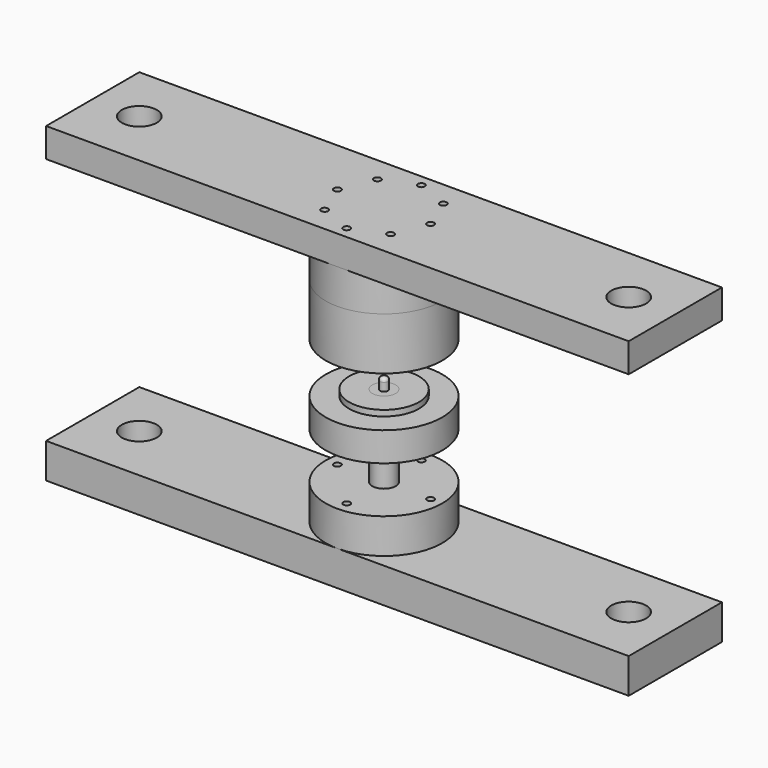
from build123d import *

# Parameters (mm, degrees)
F0_W      = 40
F0_H      = 30
F4_R      = 3
F5_DEPTH  = 90
F4_R_2    = 5.5
F4_R_3    = 2.5
F6_DEPTH  = 22
F4_R_4    = 3.15
F4_R_5    = 10
F7_DEPTH  = 30
F8_W      = 4.9999998882
F8_H      = 26
F12_R     = 3
F13_DEPTH = 45
F14_DEPTH = 25
F15_R     = 15
F16_DEPTH = 300


with BuildPart() as f1:
    # F0 (on Front) → F1 (revolve)
    with BuildSketch(Plane.XZ):
        Polygon((-10, 0), (-30, 0), (-30, -5), (-50, -5), (-50, -30), (-10, -30), align=None)
    revolve(axis=Axis((0, 0, -23.157916218), (0, 0, 1)))


with BuildPart() as f2:
    # F0 (on Front) → F2 (revolve)
    with BuildSketch(Plane.XZ):
        with BuildLine():
            Line((-3.5, 0), (-10, 0))
            Line((-10, 0), (-10, -30))
            Line((-10, -30), (-10, -70))
            Line((-10, -70), (-10, -100))
            Line((-10, -100), (0, -100))
            Line((0, -100), (0, 10))
            Line((0, 10), (-0.5, 10))
            ThreePointArc((-0.5, 10), (-2.6213203436, 9.1213203436), (-3.5, 7))
            Line((-3.5, 7), (-3.5, 0))
        make_face()
    revolve(axis=Axis((0, 0, -23.157916218), (0, 0, 1)))


with BuildPart() as f3:
    # F0 (on Front) → F3 (revolve)
    with BuildSketch(Plane.XZ):
        with Locations((-30, -85)):
            Rectangle(F0_W, F0_H)
    revolve(axis=Axis((0, 0, -23.157916218), (0, 0, 1)))


with BuildPart() as f5_tool:
    # F4 (on face) → F5 (new body)
    with BuildSketch(Plane(origin=(0, 0, -100), x_dir=(1, 0, 0), z_dir=(0, 0, -1))):
        with Locations((0, -40)):
            Circle(F4_R)
        with Locations((-40, 0)):
            Circle(F4_R)
        with Locations((0, 40)):
            Circle(F4_R)
        with Locations((40, 0)):
            Circle(F4_R)
    extrude(amount=-F5_DEPTH)


with BuildPart() as f1_1:
    add(f1.part)

    # F5: cut by f5_tool
    add(f5_tool.part, mode=Mode.SUBTRACT)


with BuildPart() as f3_1:
    add(f3.part)

    # F5: cut by f5_tool
    add(f5_tool.part, mode=Mode.SUBTRACT)

    # F4 (on face) → F6 (cut)
    with BuildSketch(Plane(origin=(0, 0, -100), x_dir=(1, 0, 0), z_dir=(0, 0, -1))):
        with Locations((-40, 0)):
            Circle(F4_R_2)
        with Locations((-40, 0)):
            Circle(F4_R, mode=Mode.SUBTRACT)
        with Locations((0, -40)):
            Circle(F4_R_2)
        with Locations((0, -40)):
            Circle(F4_R, mode=Mode.SUBTRACT)
        with Locations((40, 0)):
            Circle(F4_R_2)
        with Locations((40, 0)):
            Circle(F4_R, mode=Mode.SUBTRACT)
        with Locations((0, 40)):
            Circle(F4_R_2)
        with Locations((0, 40)):
            Circle(F4_R, mode=Mode.SUBTRACT)
        with Locations((28.2842712475, -28.2842712475)):
            Circle(F4_R)
        with Locations((-28.2842712475, -28.2842712475)):
            Circle(F4_R)
        with Locations((-28.2842712475, -28.2842712475)):
            Circle(F4_R_3, mode=Mode.SUBTRACT)
        with Locations((-28.2842712475, 28.2842712475)):
            Circle(F4_R)
        with Locations((28.2842712475, 28.2842712475)):
            Circle(F4_R)
        with Locations((28.2842712475, 28.2842712475)):
            Circle(F4_R_3, mode=Mode.SUBTRACT)
    extrude(amount=-F6_DEPTH, mode=Mode.SUBTRACT)


with BuildPart() as f7:
    # F4 (on face) → F7 (new body)
    with BuildSketch(Plane(origin=(0, 0, -100), x_dir=(1, 0, 0), z_dir=(0, 0, -1))):
        with BuildLine():
            Line((-250, 50), (-250, -50))
            Line((-250, -50), (0, -50))
            ThreePointArc((0, -50), (-50, 0), (0, 50))
            Line((0, 50), (-250, 50))
        make_face()
        with BuildLine():
            ThreePointArc((50, 0), (35.3553390593, -35.3553390593), (0, -50))
            Line((0, -50), (250, -50))
            Line((250, -50), (250, 50))
            Line((250, 50), (0, 50))
            ThreePointArc((0, 50), (35.3553390593, 35.3553390593), (50, 0))
        make_face()
        with BuildLine():
            ThreePointArc((0, 50), (-50, 0), (0, -50))
            ThreePointArc((0, -50), (35.3553390593, -35.3553390593), (50, 0))
            ThreePointArc((50, 0), (35.3553390593, 35.3553390593), (0, 50))
        make_face()
        with Locations((-28.2842712475, -28.2842712475)):
            Circle(F4_R, mode=Mode.SUBTRACT)
        with Locations((0, -40)):
            Circle(F4_R_2, mode=Mode.SUBTRACT)
        with Locations((28.2842712475, -28.2842712475)):
            Circle(F4_R_4, mode=Mode.SUBTRACT)
        with Locations((-40, 0)):
            Circle(F4_R_2, mode=Mode.SUBTRACT)
        with Locations((-28.2842712475, 28.2842712475)):
            Circle(F4_R_4, mode=Mode.SUBTRACT)
        Circle(F4_R_5, mode=Mode.SUBTRACT)
        with Locations((40, 0)):
            Circle(F4_R_2, mode=Mode.SUBTRACT)
        with Locations((28.2842712475, 28.2842712475)):
            Circle(F4_R, mode=Mode.SUBTRACT)
        with Locations((0, 40)):
            Circle(F4_R_2, mode=Mode.SUBTRACT)
        with Locations((0, -40)):
            Circle(F4_R_2)
        with Locations((0, -40)):
            Circle(F4_R, mode=Mode.SUBTRACT)
        with Locations((0, -40)):
            Circle(F4_R)
        with Locations((40, 0)):
            Circle(F4_R_2)
        with Locations((40, 0)):
            Circle(F4_R, mode=Mode.SUBTRACT)
        with Locations((40, 0)):
            Circle(F4_R)
        with Locations((0, 40)):
            Circle(F4_R_2)
        with Locations((0, 40)):
            Circle(F4_R, mode=Mode.SUBTRACT)
        with Locations((0, 40)):
            Circle(F4_R)
        with Locations((-40, 0)):
            Circle(F4_R_2)
        with Locations((-40, 0)):
            Circle(F4_R, mode=Mode.SUBTRACT)
        with Locations((-40, 0)):
            Circle(F4_R)
    extrude(amount=F7_DEPTH)


with BuildPart() as f9:
    # F8 (on Front) → F9 (revolve)
    with BuildSketch(Plane.XZ):
        Polygon((-4.9999998882, 32.8772112727), (-4.9999998882, 44.8772112727), (-4.9999998882, 70.8772112727), (-4.9999998882, 82.8772112727), (-14.9999996647, 82.8772112727), (-14.9999996647, 77.8772085905), (-10, 77.8772085905), (-10, 32.8772112727), align=None)
        with Locations((-2.4999999441, 57.8772112727)):
            Rectangle(F8_W, F8_H)
    revolve(axis=Axis((0, 0, -14.5613943636), (0, 0, 1)))


with BuildPart() as f10:
    # F8 (on Front) → F10 (revolve)
    with BuildSketch(Plane.XZ):
        Polygon((-30, 32.8772112727), (-10, 32.8772112727), (-10, 77.8772085905), (-14.9999996647, 77.8772085905), (-14.9999996647, 82.8772112727), (-50, 82.8772112727), (-50, 37.8772112727), (-30, 37.8772112727), align=None)
    revolve(axis=Axis((0, 0, -14.5613943636), (0, 0, 1)))


with BuildPart() as f11:
    # F8 (on Front) → F11 (revolve)
    with BuildSketch(Plane.XZ):
        Polygon((-50, 82.8772112727), (-14.9999996647, 82.8772112727), (-14.9999996647, 97.8772112727), (0, 97.8772112727), (0, 112.8772112727), (-50, 112.8772112727), align=None)
    revolve(axis=Axis((0, 0, 105.3772112727), (0, 0, 1)))


with BuildPart() as f13_tool:
    # F12 (on face) → F13 (new body)
    with BuildSketch(Plane.XY.offset(112.8772112727)):
        with Locations((-28.2842712475, -28.2842712475)):
            Circle(F12_R)
        with Locations((28.2842712475, -28.2842712475)):
            Circle(F12_R)
        with Locations((28.2842712475, 28.2842712475)):
            Circle(F12_R)
        with Locations((-28.2842712475, 28.2842712475)):
            Circle(F12_R)
        with Locations((-40, 0)):
            Circle(F12_R)
        with Locations((0, -40)):
            Circle(F12_R)
        with Locations((40, 0)):
            Circle(F12_R)
        with Locations((0, 40)):
            Circle(F12_R)
    extrude(amount=-F13_DEPTH)


with BuildPart() as f10_1:
    add(f10.part)

    # F13: cut by f13_tool
    add(f13_tool.part, mode=Mode.SUBTRACT)


with BuildPart() as f11_1:
    add(f11.part)

    # F13: cut by f13_tool
    add(f13_tool.part, mode=Mode.SUBTRACT)

    # F12 (on face) → F14 (join)
    with BuildSketch(Plane.XY.offset(112.8772112727)):
        with BuildLine():
            ThreePointArc((-2.072e-07, -50), (-50, 1.71e-07), (1.348e-07, 50))
            Line((1.348e-07, 50), (-250, 50))
            Line((-250, 50), (-250, -50))
            Line((-250, -50), (-2.072e-07, -50))
        make_face()
        with BuildLine():
            Line((250, -50), (250, 50))
            Line((250, 50), (1.348e-07, 50))
            ThreePointArc((1.348e-07, 50), (35.355339107, 35.3553390117), (50, 0))
            ThreePointArc((50, 0), (35.3553389861, -35.3553391326), (-2.072e-07, -50))
            Line((-2.072e-07, -50), (250, -50))
        make_face()
        with BuildLine():
            ThreePointArc((50, 0), (35.355339107, 35.3553390117), (1.348e-07, 50))
            ThreePointArc((1.348e-07, 50), (-50, 1.71e-07), (-2.072e-07, -50))
            ThreePointArc((-2.072e-07, -50), (35.3553389861, -35.3553391326), (50, 0))
        make_face()
        with Locations((-28.2842712475, -28.2842712475)):
            Circle(F12_R, mode=Mode.SUBTRACT)
        with Locations((0, -40)):
            Circle(F12_R, mode=Mode.SUBTRACT)
        with Locations((28.2842712475, -28.2842712475)):
            Circle(F12_R, mode=Mode.SUBTRACT)
        with Locations((-40, 0)):
            Circle(F12_R, mode=Mode.SUBTRACT)
        with Locations((-28.2842712475, 28.2842712475)):
            Circle(F12_R, mode=Mode.SUBTRACT)
        with Locations((40, 0)):
            Circle(F12_R, mode=Mode.SUBTRACT)
        with Locations((28.2842712475, 28.2842712475)):
            Circle(F12_R, mode=Mode.SUBTRACT)
        with Locations((0, 40)):
            Circle(F12_R, mode=Mode.SUBTRACT)
    extrude(amount=F14_DEPTH)


with BuildPart() as f16_tool:
    # F15 (on face) → F16 (new body)
    with BuildSketch(Plane.XY.offset(137.8772112727)):
        with Locations((210, 0)):
            Circle(F15_R)
        with Locations((-210, 0)):
            Circle(F15_R)
    extrude(amount=-F16_DEPTH)


with BuildPart() as f7_1:
    add(f7.part)

    # F16: cut by f16_tool
    add(f16_tool.part, mode=Mode.SUBTRACT)


with BuildPart() as f11_2:
    add(f11_1.part)

    # F16: cut by f16_tool
    add(f16_tool.part, mode=Mode.SUBTRACT)


solid = Compound([f2.part, f1_1.part, f3_1.part, f9.part, f10_1.part, f7_1.part, f11_2.part])
